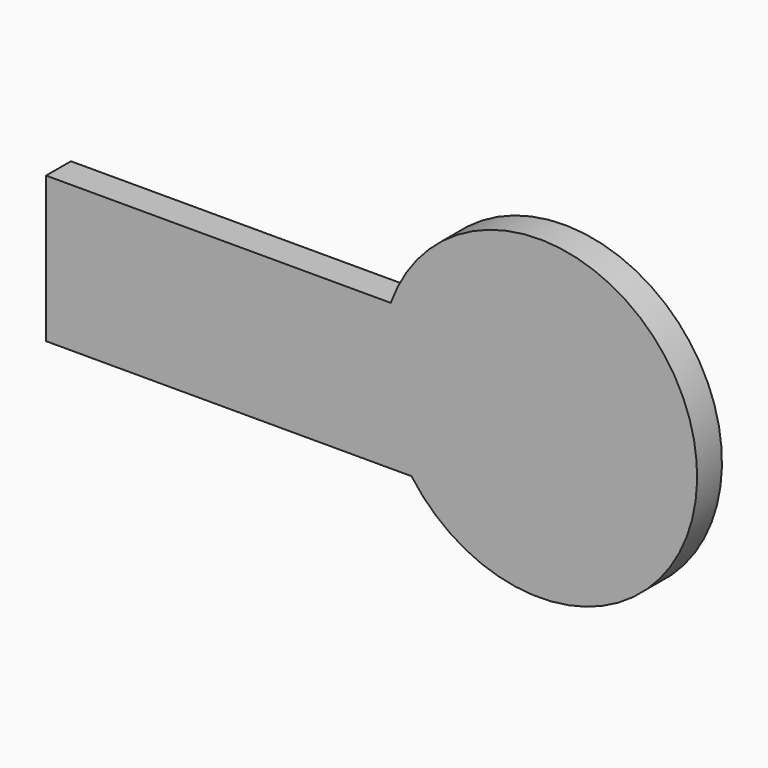
from build123d import *

# Parameters (mm, degrees)
F2_DEPTH = 5.08


with BuildPart() as f2:
    # F1 (on face) → F2 (new body)
    with BuildSketch(Plane.XZ):
        with BuildLine():
            Line((-59.747681, 9.750456), (0.03491, 9.750456))
            ThreePointArc((0.03491, 9.750456), (46.520856, 28.530345), (-3.357442, 33.608027))
            Line((-3.357442, 33.608027), (-59.747681, 33.608027))
            Line((-59.747681, 33.608027), (-59.747681, 9.750456))
        make_face()
    extrude(amount=F2_DEPTH)


solid = f2.part
